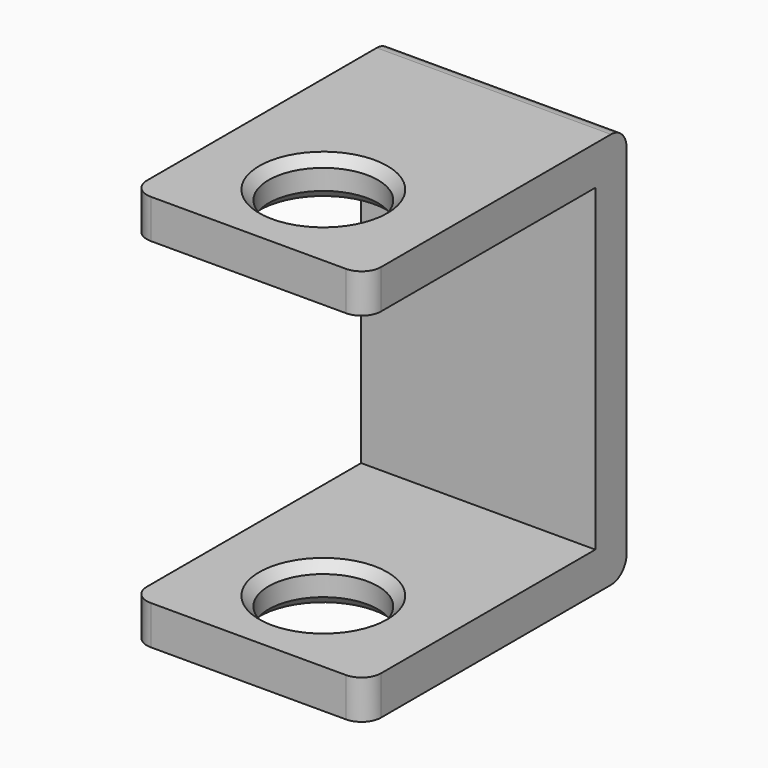
from build123d import *

# Parameters (mm, degrees)
F1_DEPTH = 19.05
F2_R     = 4.445
F3_DEPTH = 25.4
F4_R     = 4.445
F5_DEPTH = 3.175
F6_R     = 1.5875
F7_SIZE  = 0.762


with BuildPart() as f1:
    # F0 (on Right) → F1 (new body)
    with BuildSketch(Plane.YZ):
        Polygon((0, 3.175), (0, 0), (26.542, 0), (26.542, 32.258), (0, 32.258), (0, 29.083), (23.367, 29.083), (23.367, 3.175), align=None)
    extrude(amount=F1_DEPTH)

    # F2 (on face) → F3 (cut)
    with BuildSketch(Plane.XY.offset(3.175)):
        with Locations((9.525, 7.62)):
            Circle(F2_R)
    extrude(amount=-F3_DEPTH, mode=Mode.SUBTRACT)

    # F4 (on face) → F5 (cut, through all)
    with BuildSketch(Plane.XY.offset(32.258)):
        with Locations((9.525, 7.62)):
            Circle(F4_R)
    extrude(amount=-F5_DEPTH, mode=Mode.SUBTRACT)

    # F6
    f6_edges = [f1.edges().sort_by_distance(p)[0] for p in [
        (19.05, 0, 30.6705),
        (0, 0, 30.6705),
        (0, 0, 1.5875),
        (19.05, 0, 1.5875),
        (9.525, 26.542, 32.258),
        (9.525, 26.542, 0),
    ]]
    fillet(f6_edges, radius=F6_R)

    # F7
    f7_edges = [f1.edges().sort_by_distance(p)[0] for p in [
        (5.08, 7.62, 0),
        (5.08, 7.62, 29.083),
        (5.08, 7.62, 32.258),
        (5.08, 7.62, 3.175),
    ]]
    chamfer(f7_edges, length=F7_SIZE)


solid = f1.part
